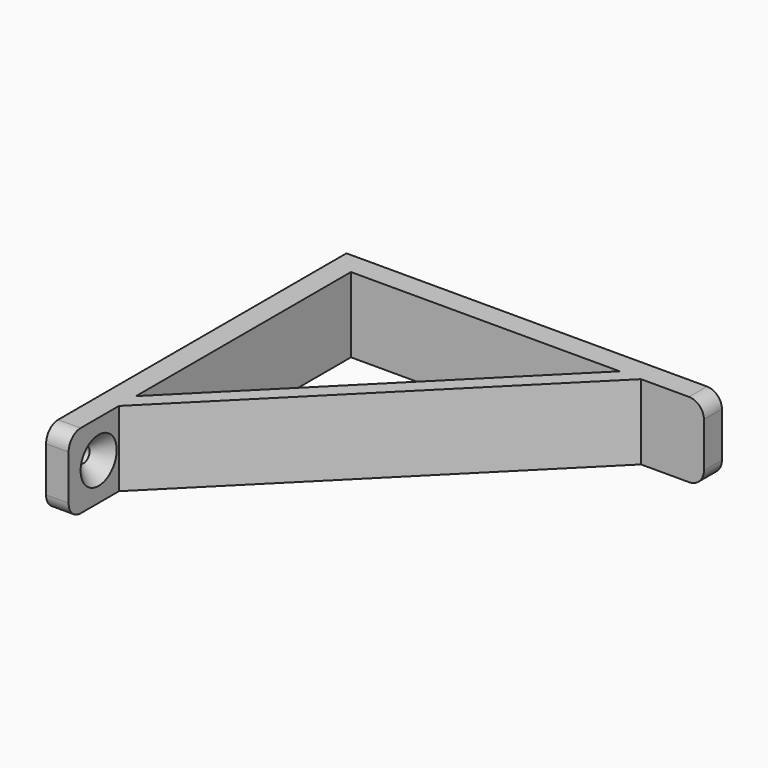
from build123d import *

# Parameters (mm, degrees)
F0_W     = 117.5
F0_H     = 7.5
F0_W_2   = 7.5
F0_H_2   = 117.5
F1_DEPTH = 25
F3_DEPTH = 25
F4_R     = 2.5
F5_DEPTH = 25
F6_SIZE  = 5
F7_R     = 5


with BuildPart() as f1:
    # F0 (on Top) → F1 (new body)
    with BuildSketch(Plane.XY):
        with Locations((66.25, -3.75)):
            Rectangle(F0_W, F0_H)
        with Locations((3.75, -3.75)):
            Rectangle(F0_W_2, F0_H)
        with Locations((3.75, -66.25)):
            Rectangle(F0_W_2, F0_H_2)
    extrude(amount=F1_DEPTH)

    # F2 (on face) → F3 (join)
    with BuildSketch(Plane.XY.offset(25)):
        Polygon((96.9734936953, -7.5), (7.5, -96.9734936953), (7.5, -104.0445615071), (11.0355339059, -100.5090276012), (100.5090276012, -11.0355339059), (104.0445615071, -7.5), align=None)
    extrude(amount=-F3_DEPTH)

    # F4 (on face) → F5 (cut)
    with BuildSketch(Plane(origin=(0, 0, 0), x_dir=(0, -1, 0), z_dir=(-1, 0, 0))):
        with Locations((112.5, 12.5)):
            Circle(F4_R)
    extrude(amount=-F5_DEPTH, mode=Mode.SUBTRACT)

    # F6
    f6_edges = [f1.edges().sort_by_distance(p)[0] for p in [
        (7.5, -110, 12.5),
    ]]
    chamfer(f6_edges, length=F6_SIZE)

    # F7
    f7_edges = [f1.edges().sort_by_distance(p)[0] for p in [
        (3.75, -125, 25),
        (3.75, -125, 0),
        (125, -3.75, 25),
        (125, -3.75, 0),
    ]]
    fillet(f7_edges, radius=F7_R)


solid = f1.part
